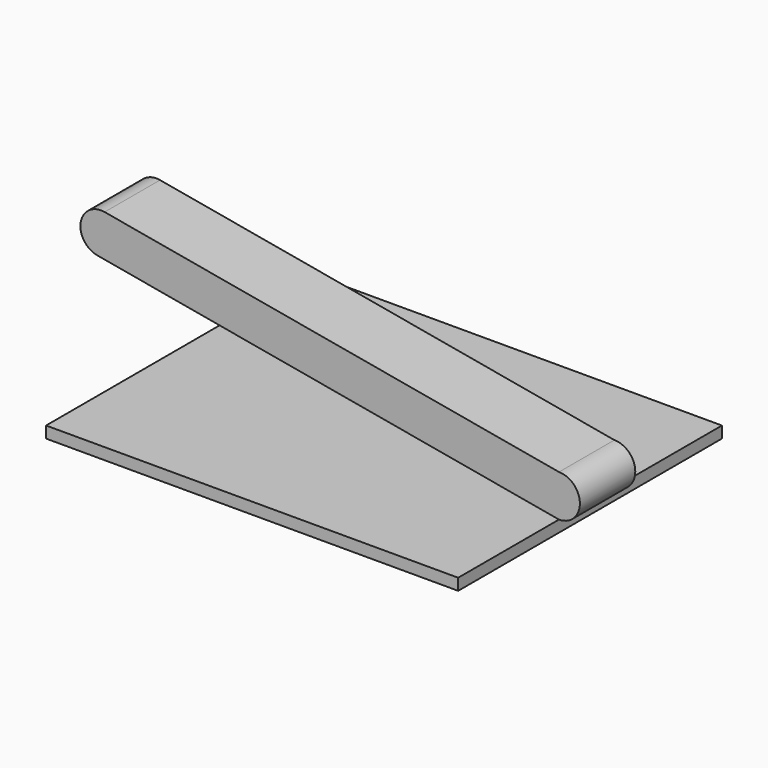
from build123d import *

# Parameters (mm, degrees)
F0_W     = 2500
F0_H     = 764.2315775156
F0_H_2   = 420
F0_H_3   = 815.7684224844
F1_DEPTH = 70
F3_DEPTH = 210


with BuildPart() as f1:
    # F0 (on Top) → F1 (new body)
    with BuildSketch(Plane.XY):
        with Locations((0, -592.1157887578)):
            Rectangle(F0_W, F0_H)
        Rectangle(F0_W, F0_H_2)
        with Locations((0, 617.8842112422)):
            Rectangle(F0_W, F0_H_3)
    extrude(amount=-F1_DEPTH)


with BuildPart() as f3:
    # F2 (on Front) → F3 (new body, symmetric)
    with BuildSketch(Plane.XZ):
        with BuildLine():
            ThreePointArc((-1506.0523403791, 746.1068938771), (-1651.0796171281, 645.027276749), (-1550, 500))
            Line((-1550, 500), (1250, 0))
            ThreePointArc((1250, 0), (1376.977345119, 126.977345119), (1250, 253.954690238))
            Line((1250, 253.954690238), (-1506.0523403791, 746.1068938771))
        make_face()
    extrude(amount=F3_DEPTH, both=True)


solid = Compound([f1.part, f3.part])
